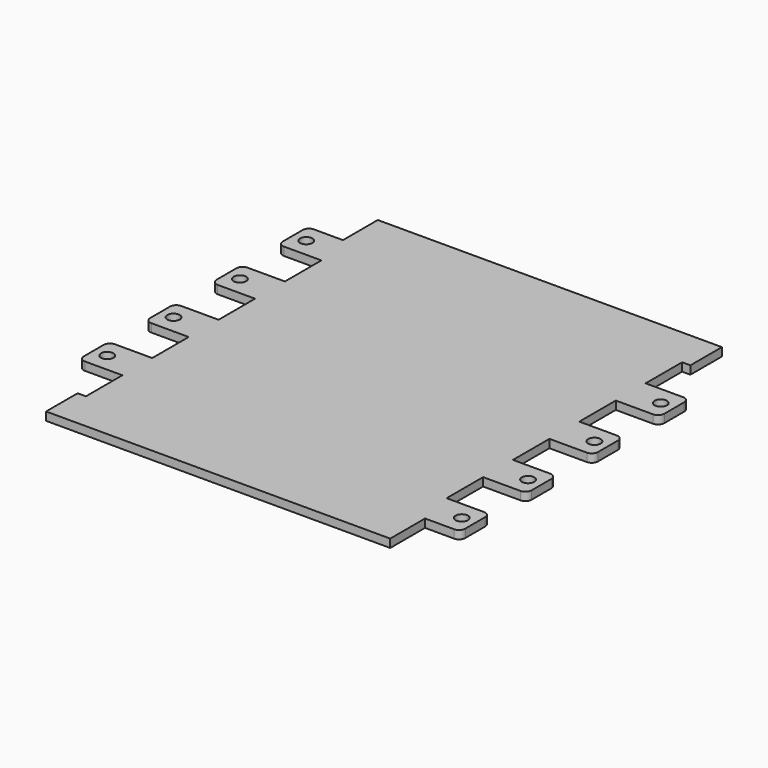
from build123d import *

# Parameters (mm, degrees)
PAD_DEPTH           = 2
SKETCH001_R         = 1.5
POCKET_DEPTH        = 2.001
LINEARPATTERN_COUNT = 4
LINEARPATTERN_PITCH = 20
FILLET_R            = 1.5


with BuildPart() as part:
    # Sketch → Pad (new body)
    with BuildSketch(Plane.XY):
        Polygon((8.5, 0), (8.5, 9.5), (10.5, 9.5), (10.5, 20.5), (0, 20.5), (0, 29.5), (10.5, 29.5), (10.5, 40.5), (0, 40.5), (0, 49.5), (10.5, 49.5), (10.5, 60.5), (0, 60.5), (0, 69.5), (10.5, 69.5), (10.5, 80.5), (0, 80.5), (0, 89.5), (8.5, 89.5), (8.5, 100), (91.5, 100), (91.5, 90.5), (89.5, 90.5), (89.5, 79.5), (100, 79.5), (100, 70.5), (89.5, 70.5), (89.5, 59.5), (100, 59.5), (100, 50.5), (89.5, 50.5), (89.5, 39.5), (100, 39.5), (100, 30.5), (89.5, 30.5), (89.5, 19.5), (100, 19.5), (100, 10.5), (91.5, 10.5), (91.5, 0), align=None)
    extrude(amount=PAD_DEPTH)

    # Sketch001 → Pocket (cut, through all)
    with BuildSketch(Plane.XY.offset(2)):
        with Locations((3.25, 25)):
            Circle(SKETCH001_R)
        with Locations((96.75, 15)):
            Circle(SKETCH001_R)
    pocket = extrude(amount=-POCKET_DEPTH, mode=Mode.SUBTRACT)

    # LinearPattern: Pocket ×4
    with Locations(*[(0, i * LINEARPATTERN_PITCH, 0) for i in range(1, LINEARPATTERN_COUNT)]):
        add(pocket, mode=Mode.SUBTRACT)

    # Fillet
    fillet_edges = [part.edges().sort_by_distance(p)[0] for p in [
        (100, 10.5, 1),
        (0, 20.5, 1),
        (100, 19.5, 1),
        (0, 29.5, 1),
        (100, 30.5, 1),
        (0, 40.5, 1),
        (100, 39.5, 1),
        (0, 49.5, 1),
        (100, 50.5, 1),
        (0, 60.5, 1),
        (100, 59.5, 1),
        (0, 69.5, 1),
        (100, 70.5, 1),
        (0, 80.5, 1),
        (100, 79.5, 1),
        (0, 89.5, 1),
    ]]
    fillet(fillet_edges, radius=FILLET_R)


solid = part.part
